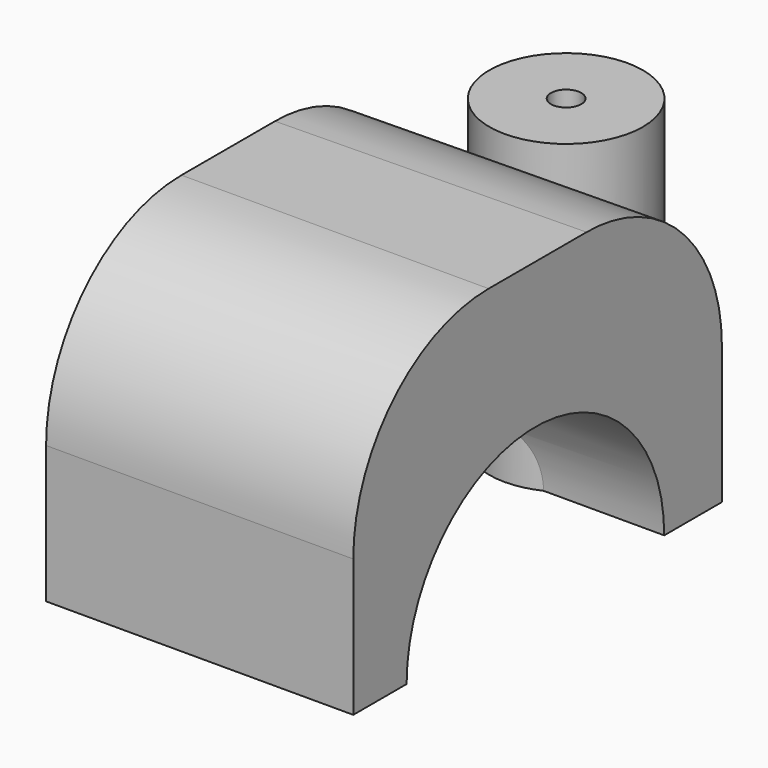
from build123d import *

# Parameters (mm, degrees)
F1_DEPTH  = 7.493
F3_DEPTH  = 10.0086
F5_DEPTH  = 2.4892
F6_R      = 5.5118
F7_R      = 2.5019
F8_DEPTH  = 9.9822
F9_R      = 0.4953
F10_DEPTH = 9.9822


with BuildPart() as f1:
    # F0 (on Top) → F1 (new body)
    with BuildSketch(Plane.XY):
        Polygon((-14.141997, 3.073401), (-14.141997, -11.759634), (-4.134397, -11.759634), (-4.134397, 3.251766), align=None)
    extrude(amount=F1_DEPTH)

    # F2 (on face) → F3 (cut, through all)
    with BuildSketch(Plane(origin=(-14.141997, 0, 0), x_dir=(0, -1, 0), z_dir=(-1, 0, 0))):
        with BuildLine():
            Line((-0.901983, 0), (9.588217, 0))
            ThreePointArc((9.588217, 0), (4.343117, 5.2451), (-0.901983, 0))
        make_face()
    extrude(amount=-F3_DEPTH, mode=Mode.SUBTRACT)

    # F4 (on face) → F5 (join)
    with BuildSketch(Plane.XY.offset(7.493)):
        Polygon((-4.134397, 3.251766), (-14.141997, 3.073401), (-14.141997, -11.759634), (-4.134397, -11.759634), align=None)
    extrude(amount=F5_DEPTH)

    # F6
    f6_edges = [f1.edges().sort_by_distance(p)[0] for p in [
        (-9.138197, 3.162583, 9.9822),
        (-9.138197, -11.759634, 9.9822),
    ]]
    fillet(f6_edges, radius=F6_R)

    # F7 (on face) → F8 (join)
    with BuildSketch(Plane.XY.offset(9.9822)):
        with Locations((-9.138197, 3.162583)):
            Circle(F7_R)
    extrude(amount=-F8_DEPTH)

    # F9 (on face) → F10 (cut)
    with BuildSketch(Plane.XY.offset(9.9822)):
        with Locations((-9.138197, 3.162583)):
            Circle(F9_R)
    extrude(amount=-F10_DEPTH, mode=Mode.SUBTRACT)


solid = f1.part
